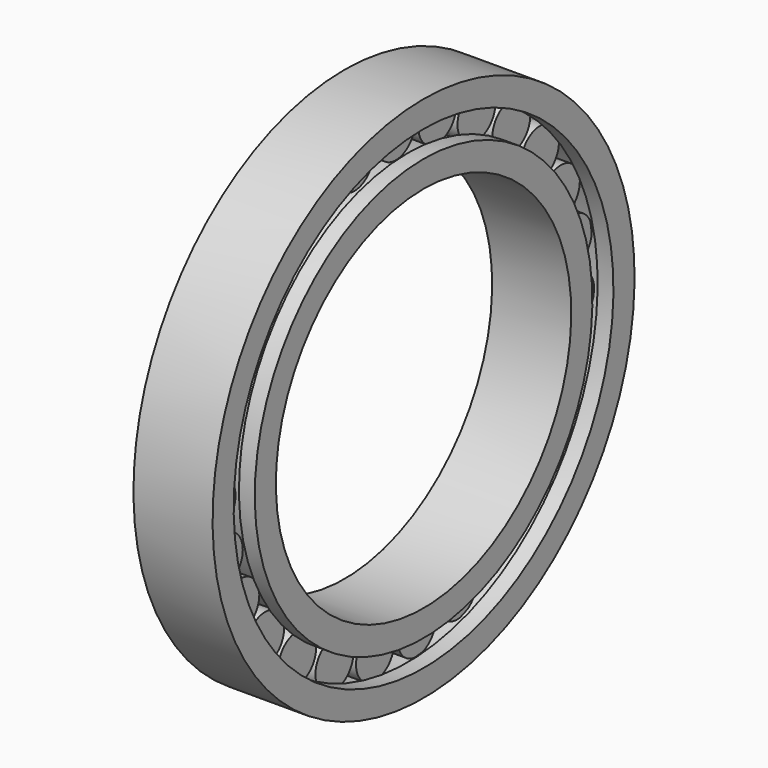
from build123d import *

# Parameters (mm, degrees)
F2_R     = 9
F3_DEPTH = 4.5


with BuildPart() as f1:
    # F0 (on Front) → F1 (revolve)
    with BuildSketch(Plane.XZ):
        Polygon((15, 100), (0, 100), (-15, 100), (-15, 90), (-12.046538, 90), (-9, 90), (-9, 94), (0, 94), (9, 94), (9, 90), (11.928149, 90), (15, 90), align=None)
        Polygon((11.928149, 80), (9, 80), (9, 76), (0, 76), (-9, 76), (-9, 80), (-12.046538, 80), (-15, 80), (-15, 70), (0, 70), (15, 70), (15, 80), align=None)
    revolve(axis=Axis((0.990749, 0, 0), (1, 0, 0)))


with BuildPart() as f3:
    # F2 (on Right) → F3 (new body, symmetric)
    with BuildSketch(Plane.YZ):
        with Locations((0, 85.136287)):
            Circle(F2_R)
        with Locations((-19.633779, 82.841427)):
            Circle(F2_R)
        with Locations((-38.209096, 76.080565)):
            Circle(F2_R)
        with Locations((-54.72455, 65.218179)):
            Circle(F2_R)
        with Locations((-68.28979, 50.839865)):
            Circle(F2_R)
        with Locations((-78.17351, 33.720761)):
            Circle(F2_R)
        with Locations((-83.842875, 14.783761)):
            Circle(F2_R)
        with Locations((-84.99225, -4.950235)):
            Circle(F2_R)
        with Locations((-81.55967, -24.417362)):
            Circle(F2_R)
        with Locations((-73.730187, -42.568143)):
            Circle(F2_R)
        with Locations((-61.925891, -58.424065)):
            Circle(F2_R)
        with Locations((-29.118325, -80.001941)):
            Circle(F2_R)
        with Locations((-46.783154, -71.13033)):
            Circle(F2_R)
        with Locations((-9.88372, -84.560626)):
            Circle(F2_R)
        with Locations((9.88372, -84.560626)):
            Circle(F2_R)
        with Locations((29.118325, -80.001941)):
            Circle(F2_R)
        with Locations((46.783154, -71.13033)):
            Circle(F2_R)
        with Locations((61.925891, -58.424065)):
            Circle(F2_R)
        with Locations((73.730187, -42.568143)):
            Circle(F2_R)
        with Locations((81.55967, -24.417362)):
            Circle(F2_R)
        with Locations((84.99225, -4.950235)):
            Circle(F2_R)
        with Locations((83.842875, 14.783761)):
            Circle(F2_R)
        with Locations((78.17351, 33.720761)):
            Circle(F2_R)
        with Locations((68.28979, 50.839865)):
            Circle(F2_R)
        with Locations((54.72455, 65.218179)):
            Circle(F2_R)
        with Locations((38.209096, 76.080565)):
            Circle(F2_R)
        with Locations((19.633779, 82.841427)):
            Circle(F2_R)
    extrude(amount=F3_DEPTH, both=True)


solid = Compound([f1.part, f3.part])
